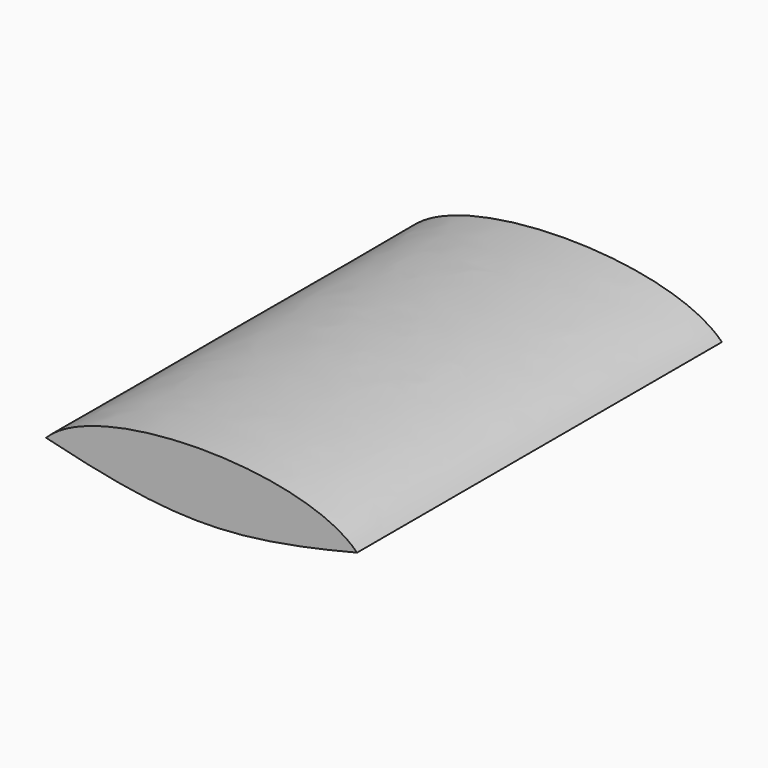
from build123d import *

# Parameters (mm, degrees)
PAD_DEPTH = 220


with BuildPart() as part:
    # Sketch → Pad (new body)
    with BuildSketch(Plane.XZ):
        with BuildLine():
            add(Edge.make_bspline(
                [(-75, 0), (-49.66732, 26.044735), (49.66732, 26.044735), (75, 0)],
                knots=[0, 0, 0, 0, 1, 1, 1, 1], degree=3))
            add(Edge.make_bspline(
                [(-75, 0), (-13.312853, -15.41255), (13.312853, -15.41255), (75, 0)],
                knots=[0, 0, 0, 0, 1, 1, 1, 1], degree=3))
        make_face()
    extrude(amount=PAD_DEPTH)


solid = part.part
